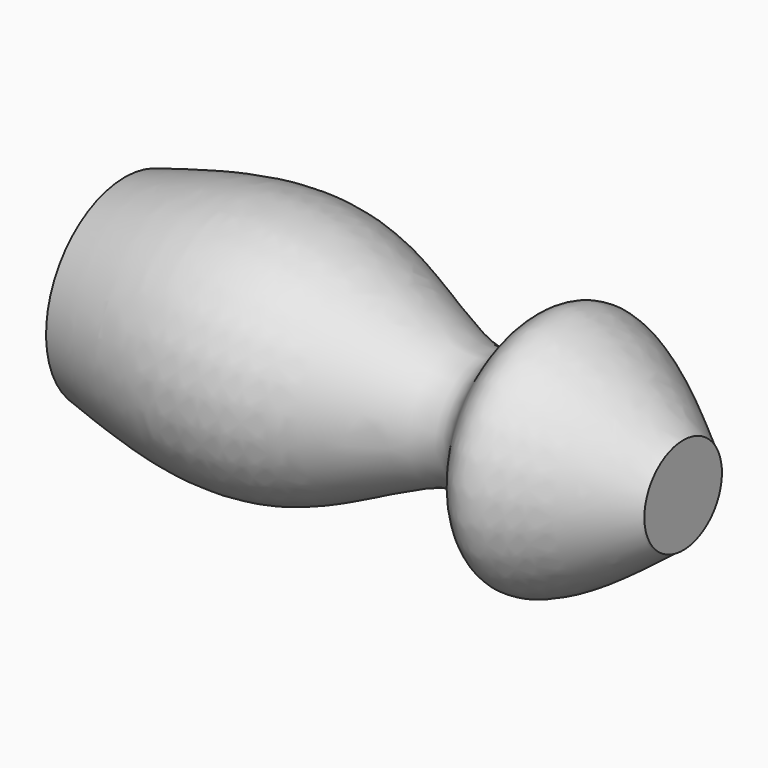
from build123d import *


with BuildPart() as f1:
    # F0 (on Front) → F1 (revolve)
    with BuildSketch(Plane.XZ):
        with BuildLine():
            add(Edge.make_bspline(
                [(-45.8684228361, 18.5131579638), (-33.0900493164, 22.106324295), (-8.6511632195, 28.9783242847), (25.8116797488, 1.6015371472), (31.7354146588, 33.6226568471), (58.1934559502, 9.1319990841), (59.131577611, 9.1184210032)],
                knots=[0, 0, 0, 0, 0.2871070515, 0.5490977797, 0.7358703976, 0.975779383, 0.975779383, 0.975779383, 0.975779383], degree=3))
            Line((-45.8684228361, 18.5131579638), (-54.9868457019, 0))
            Line((-54.9868457019, 0), (59.131577611, 0))
            Line((59.131577611, 0), (59.131577611, 9.1184210032))
        make_face()
    revolve(axis=Axis((2.0723659545, 0, 0), (-1, 0, 0)))


solid = f1.part
